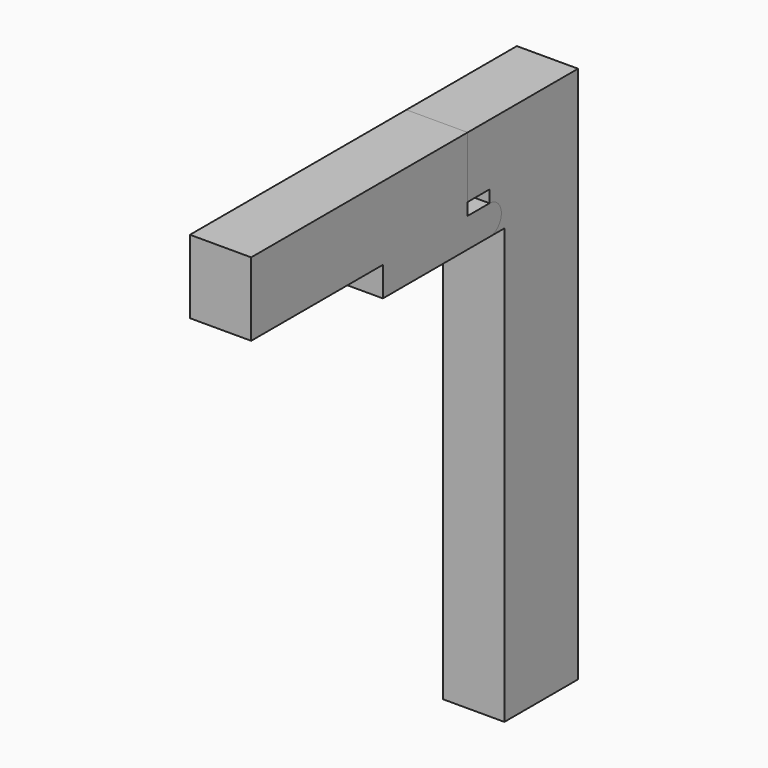
from build123d import *

# Parameters (mm, degrees)
F1_DEPTH = 25.4
F2_DEPTH = 25.4


with BuildPart() as f1:
    # F0 (on Right) → F1 (new body)
    with BuildSketch(Plane.YZ):
        Polygon((0, 180.259005), (0, 0), (38.204829, 0), (38.204829, 223.022597), (-19.05, 223.022597), (-19.05, 197.622597), (-7.7, 197.622597), (0, 197.622597), align=None)
        with BuildLine():
            Line((-7.7, 180.259005), (0, 180.259005))
            Line((0, 180.259005), (0, 197.622597))
            Line((0, 197.622597), (-7.7, 197.622597))
            Line((-7.7, 197.622597), (-7.7, 192.542597))
            ThreePointArc((-7.7, 192.542597), (-3.357094, 190.743707), (-1.558204, 186.400801))
            ThreePointArc((-1.558204, 186.400801), (-3.357094, 182.057895), (-7.7, 180.259005))
        make_face()
    extrude(amount=F1_DEPTH)


with BuildPart() as f2:
    # F0 (on Right) → F2 (new body)
    with BuildSketch(Plane.YZ):
        Polygon((-19.05, 197.622597), (-19.05, 223.022597), (-131.290744, 223.022597), (-131.290744, 192.542597), (-62.97622, 192.542597), (-19.05, 192.542597), align=None)
        with BuildLine():
            Line((-62.97622, 180.259005), (-7.7, 180.259005))
            ThreePointArc((-7.7, 180.259005), (-13.841796, 186.400801), (-7.7, 192.542597))
            Line((-7.7, 192.542597), (-19.05, 192.542597))
            Line((-19.05, 192.542597), (-62.97622, 192.542597))
            Line((-62.97622, 192.542597), (-62.97622, 180.259005))
        make_face()
        with BuildLine():
            Line((-7.7, 192.542597), (-7.7, 180.259005))
            ThreePointArc((-7.7, 180.259005), (-3.357094, 182.057895), (-1.558204, 186.400801))
            ThreePointArc((-1.558204, 186.400801), (-3.357094, 190.743707), (-7.7, 192.542597))
        make_face()
        with BuildLine():
            ThreePointArc((-7.7, 192.542597), (-13.841796, 186.400801), (-7.7, 180.259005))
            Line((-7.7, 180.259005), (-7.7, 192.542597))
        make_face()
    extrude(amount=F2_DEPTH)


solid = Compound([f1.part, f2.part])
